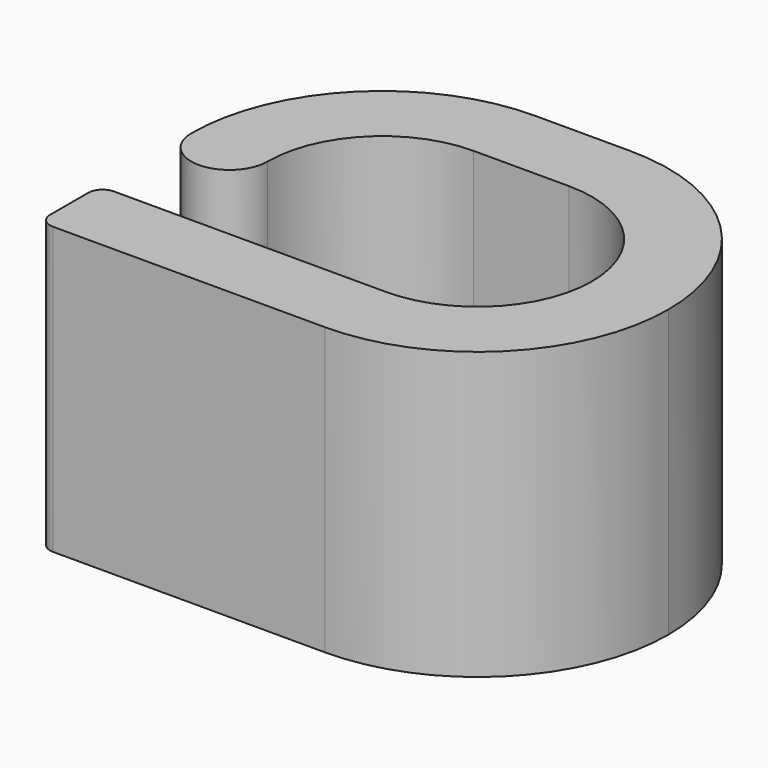
from build123d import *

# Parameters (mm, degrees)
F1_DEPTH = 15


with BuildPart() as f1:
    # F0 (on Top) → F1 (new body)
    with BuildSketch(Plane.XY):
        with BuildLine():
            ThreePointArc((6, 0), (4.242641, -4.242641), (0, -6))
            Line((0, -6), (-14.25, -6))
            ThreePointArc((-14.25, -6), (-14.78033, -6.21967), (-15, -6.75))
            Line((-15, -6.75), (-15, -9.25))
            ThreePointArc((-15, -9.25), (-14.78033, -9.78033), (-14.25, -10))
            Line((-14.25, -10), (0, -10))
            ThreePointArc((0, -10), (7.071068, -7.071068), (10, 0))
            ThreePointArc((10, 0), (7.071068, 7.071068), (0, 10))
            Line((0, 10), (-5, 10))
            ThreePointArc((-5, 10), (-12.071068, 7.071068), (-15, 0))
            ThreePointArc((-15, 0), (-13, -2), (-11, 0))
            ThreePointArc((-11, 0), (-9.242641, 4.242641), (-5, 6))
            Line((-5, 6), (0, 6))
            ThreePointArc((0, 6), (4.242641, 4.242641), (6, 0))
        make_face()
    extrude(amount=F1_DEPTH)


solid = f1.part
